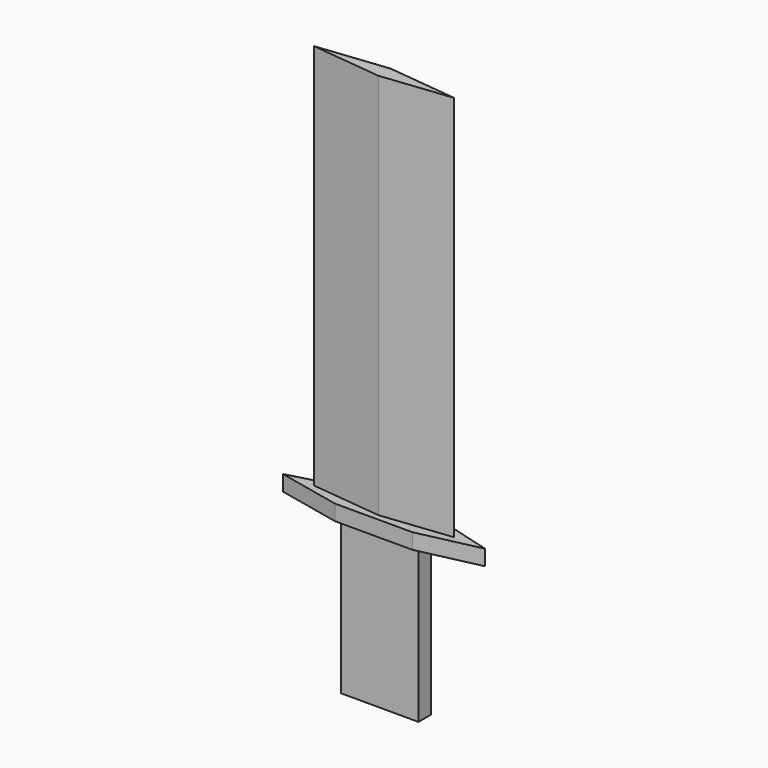
from build123d import *

# Parameters (mm, degrees)
F0_W     = 127
F0_H     = 50.8
F1_DEPTH = 25.4
F3_DEPTH = 635
F4_W     = 127
F4_H     = 25.4
F5_DEPTH = 254


with BuildPart() as f1:
    # F0 (on Top) → F1 (new body)
    with BuildSketch(Plane.XY):
        Polygon((1.767107, -22.436125), (1.767107, 28.363875), (-101.6, 0), align=None)
        Polygon((230.367107, 0), (128.767107, 28.363875), (128.767107, -22.436125), align=None)
        with Locations((65.267107, 2.963875)):
            Rectangle(F0_W, F0_H)
    extrude(amount=F1_DEPTH)

    # F2 (on face) → F3 (join)
    with BuildSketch(Plane.XY.offset(25.4)):
        Polygon((179.567107, 0), (-50.8, 0), (65.267107, -12.7), align=None)
        Polygon((65.267107, 12.7), (-50.8, 0), (179.567107, 0), align=None)
    extrude(amount=F3_DEPTH)

    # F4 (on face) → F5 (join)
    with BuildSketch(Plane(origin=(0, 0, 0), x_dir=(1, 0, 0), z_dir=(0, 0, -1))):
        with Locations((65.267107, -2.963875)):
            Rectangle(F4_W, F4_H)
    extrude(amount=F5_DEPTH)


solid = f1.part
